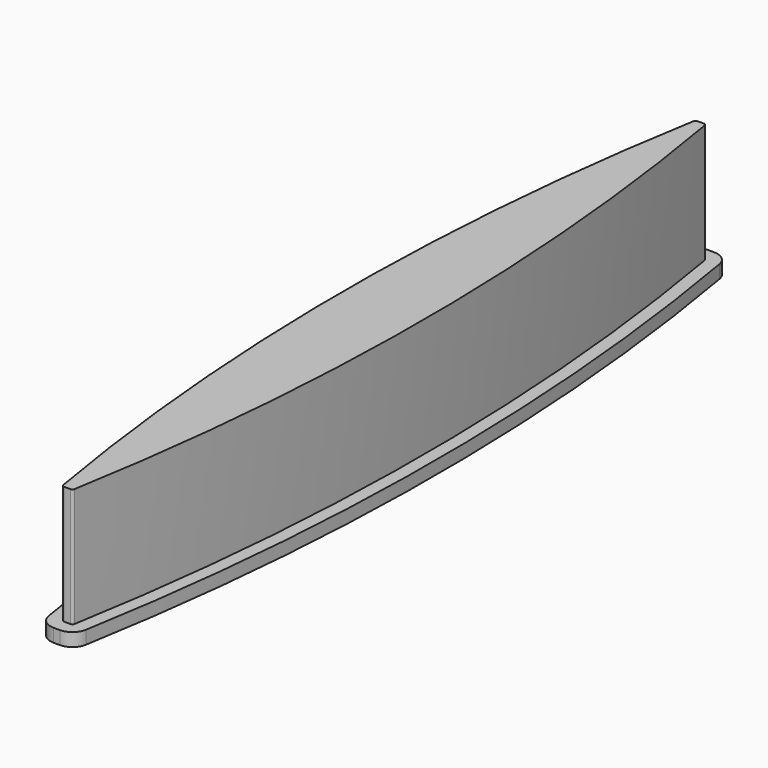
from build123d import *

# Parameters (mm, degrees)
F1_DEPTH = 250
F4_R     = 5
F6_DEPTH = 25


with BuildPart() as f1:
    # F0 (on Top) → F1 (new body)
    with BuildSketch(Plane.XY):
        with BuildLine():
            Line((-75, 0), (0, 0))
            Line((0, 0), (0, 750))
            Line((0, 750), (-10, 750))
            ThreePointArc((-10, 750), (-58.7196001726, 376.4056986816), (-75, 0))
        make_face()
    extrude(amount=F1_DEPTH)

    # F2: F1 across face


with BuildPart() as f1_1:
    add(f1.part)
    add(f1.part.mirror(Plane(origin=(-37.5, 0, 125), x_dir=(1, 0, 0), z_dir=(0, -1, 0))))

    # F3: F1 across face


with BuildPart() as f1_2:
    add(f1_1.part)
    add(f1_1.part.mirror(Plane(origin=(0, 0, 125), x_dir=(0, 1, 0), z_dir=(1, 0, 0))))

    # F4
    f4_edges = [f1_2.edges().sort_by_distance(p)[0] for p in [
        (-10, -750, 125),
        (10, -750, 125),
        (10, 750, 125),
        (-10, 750, 125),
    ]]
    fillet(f4_edges, radius=F4_R)

    # F5 (on face) → F6 (join)
    with BuildSketch(Plane(origin=(0, 0, 0), x_dir=(1, 0, 0), z_dir=(0, 0, -1))):
        with BuildLine():
            ThreePointArc((35.3531478018, -750.1327120965), (100, 0), (35.3531478018, 750.1327120965))
            ThreePointArc((35.3531478018, 750.1327120965), (25.1089369329, 767.9562776043), (5.7954877704, 775))
            Line((5.7954877704, 775), (-5.7954877704, 775))
            ThreePointArc((-5.7954877704, 775), (-25.1089369329, 767.9562776043), (-35.3531478018, 750.1327120965))
            ThreePointArc((-35.3531478018, 750.1327120965), (-100, 0), (-35.3531478018, -750.1327120965))
            ThreePointArc((-35.3531478018, -750.1327120965), (-25.1089369329, -767.9562776043), (-5.7954877704, -775))
            Line((-5.7954877704, -775), (5.7954877704, -775))
            ThreePointArc((5.7954877704, -775), (25.1089369329, -767.9562776043), (35.3531478018, -750.1327120965))
        make_face()
    extrude(amount=-F6_DEPTH)


solid = f1_2.part
